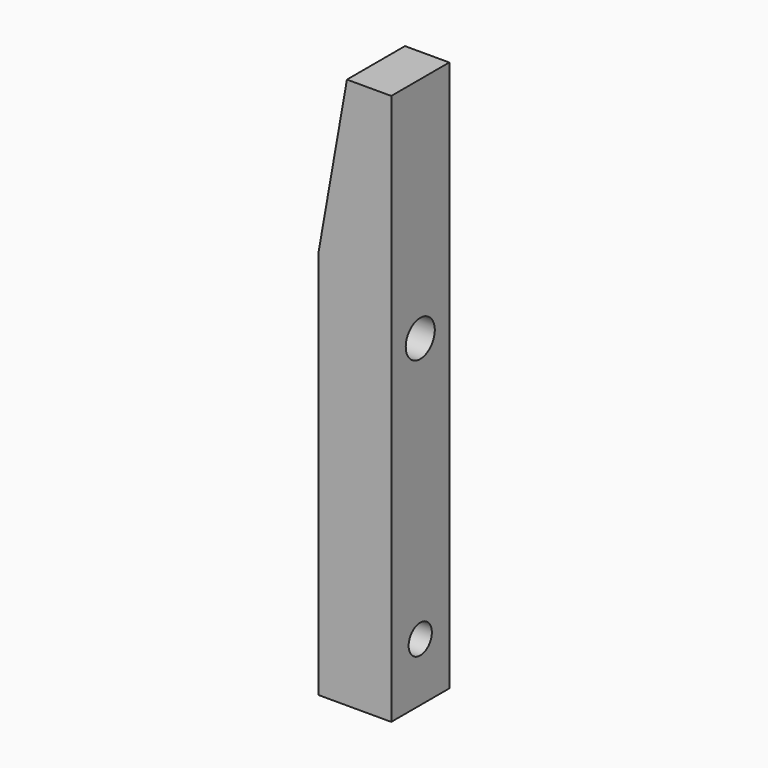
from build123d import *

# Parameters (mm, degrees)
F1_DEPTH = 15.875
F3_D     = 6.35
F3_DEPTH = 7.9375
F3_TIP   = 1.9077324654
F5_D     = 7.9502


with BuildPart() as f1:
    # F0 (on Front) → F1 (new body)
    with BuildSketch(Plane.XZ):
        Polygon((0, 85.598), (0, 0), (15.875, 0), (15.875, 120.65), (6.1722, 120.65), align=None)
    extrude(amount=F1_DEPTH)

    # F3
    with Locations(Plane.YZ.offset(15.875)):
        with Locations((-7.9375, 12.7508)):
            Hole(F3_D / 2, depth=F3_DEPTH)
            with Locations((0, 0, -(F3_DEPTH + F3_TIP / 2))):  # 118° drill point
                Cone(0, F3_D / 2, F3_TIP, mode=Mode.SUBTRACT)

    # F5 (through all)
    with Locations(Plane.YZ.offset(15.875)):
        with Locations((-7.9375, 70.6882)):
            Hole(F5_D / 2)


solid = f1.part
